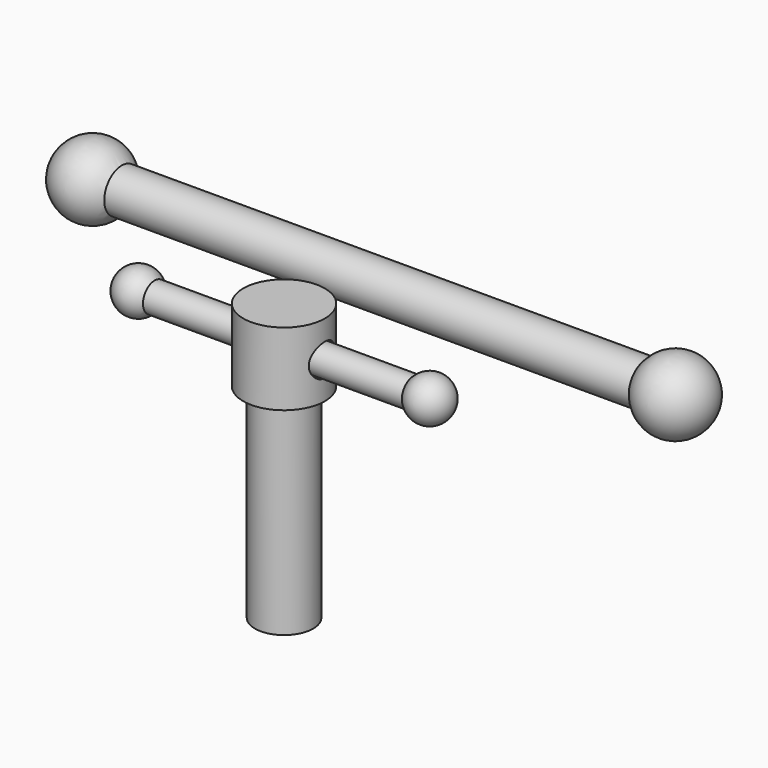
from build123d import *

# Parameters (mm, degrees)
F0_R          = 7.5
F1_DEPTH      = 100
F6_R          = 14
F7_DEPTH      = 12.5
F8_R          = 5.5
F9_DEPTH      = 112.501
F9_DEPTH_BACK = 112.501
F10_R         = 5
F11_DEPTH     = 50
F16_R         = 10
F17_DEPTH     = 70


with BuildPart() as f1:
    # F0 (on Right) → F1 (new body, symmetric)
    with BuildSketch(Plane.YZ):
        Circle(F0_R)
    extrude(amount=F1_DEPTH, both=True)

    # F2 (on face) → F3 (revolve)
    with BuildSketch(Plane(origin=(-100, 0, 0), x_dir=(0, -1, 0), z_dir=(-1, 0, 0))):
        with BuildLine():
            Line((-12.5, 0), (12.5, 0))
            ThreePointArc((12.5, 0), (0, 12.5), (-12.5, 0))
        make_face()
    revolve(axis=Axis((-100, 0, 0), (0, -1, 0)))

    # F4 (on face) → F5 (revolve)
    with BuildSketch(Plane.YZ.offset(100)):
        with BuildLine():
            ThreePointArc((12.5, 0), (0, 12.5), (-12.5, 0))
            Line((-12.5, 0), (12.5, 0))
        make_face()
    revolve(axis=Axis((100, 0, 0), (0, -1, 0)))


with BuildPart() as f7:
    # F6 (on Top) → F7 (new body, symmetric)
    with BuildSketch(Plane.XY):
        with Locations((0, -42.872053)):
            Circle(F6_R)
    extrude(amount=F7_DEPTH, both=True)

    # F8 (on Right) → F9 (cut, two sides)
    with BuildSketch(Plane.YZ) as f9_sk:
        with Locations((-42.872053, 0)):
            Circle(F8_R)
    extrude(amount=F9_DEPTH, mode=Mode.SUBTRACT)
    extrude(f9_sk.sketch, amount=-F9_DEPTH_BACK, mode=Mode.SUBTRACT)

    # F16 (on face) → F17 (join)
    with BuildSketch(Plane(origin=(0, 0, -12.5), x_dir=(1, 0, 0), z_dir=(0, 0, -1))):
        with Locations((0, 42.872053)):
            Circle(F16_R)
    extrude(amount=F17_DEPTH)


with BuildPart() as f11:
    # F10 (on Right) → F11 (new body, symmetric)
    with BuildSketch(Plane.YZ):
        with Locations((-42.872053, 0)):
            Circle(F10_R)
    extrude(amount=F11_DEPTH, both=True)

    # F12 (on face) → F13 (revolve)
    with BuildSketch(Plane.YZ.offset(50)):
        with BuildLine():
            Line((-50.372053, 0), (-35.372053, 0))
            ThreePointArc((-35.372053, 0), (-42.872053, 7.5), (-50.372053, 0))
        make_face()
    revolve(axis=Axis((50, -42.872053, 0), (0, 1, 0)))

    # F14 (on face) → F15 (revolve)
    with BuildSketch(Plane(origin=(-50, 0, 0), x_dir=(0, -1, 0), z_dir=(-1, 0, 0))):
        with BuildLine():
            ThreePointArc((50.372053, 0), (42.872053, 7.5), (35.372053, 0))
            Line((35.372053, 0), (50.372053, 0))
        make_face()
    revolve(axis=Axis((-50, -42.872053, 0), (0, 1, 0)))


solid = Compound([f1.part, f7.part, f11.part])
